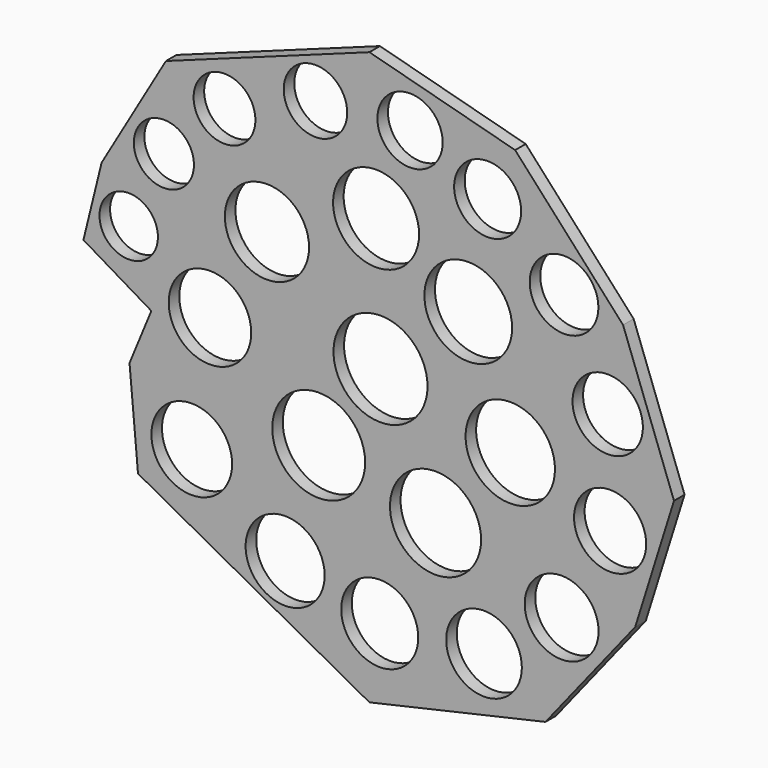
from build123d import *

# Parameters (mm, degrees)
F0_R     = 9.4996
F0_R_2   = 9.7028
F0_R_3   = 11.1633
F0_R_4   = 9.2583
F0_R_5   = 9.0932
F0_R_6   = 8.8773
F0_R_7   = 10.9474
F0_R_8   = 10.7442
F0_R_9   = 8.6741
F0_R_10  = 7.0231
F0_R_11  = 9.9187
F0_R_12  = 7.2263
F0_R_13  = 10.1219
F0_R_14  = 10.3378
F0_R_15  = 7.4295
F0_R_16  = 7.6327
F0_R_17  = 11.303
F0_R_18  = 10.541
F0_R_19  = 8.4582
F0_R_20  = 8.255
F0_R_21  = 8.0518
F0_R_22  = 7.8486
F1_DEPTH = 3.175


with BuildPart() as f1:
    # F0 (on Front) → F1 (new body)
    with BuildSketch(Plane.XZ):
        Polygon((-74.326232, 6.558197), (-58.00814, -3.154771), (-63.250169, -15.885411), (-61.209839, -38.620494), (-5.588048, -68.933934), (36.725905, -59.315246), (58.295086, -32.208033), (67.622297, -2.477541), (55.380326, 30.750657), (29.439015, 59.315246), (-5.588048, 68.64246), (-54.505903, 50.862461), (-69.954097, 24.338197), align=None)
        with Locations((-25.844501, -45.592066)):
            Circle(F0_R, mode=Mode.SUBTRACT)
        with Locations((-48.288107, -29.26944)):
            Circle(F0_R_2, mode=Mode.SUBTRACT)
        with Locations((-17.783852, -18.508689)):
            Circle(F0_R_3, mode=Mode.SUBTRACT)
        with Locations((-3.109419, -51.421572)):
            Circle(F0_R_4, mode=Mode.SUBTRACT)
        with Locations((21.957465, -49.672719)):
            Circle(F0_R_5, mode=Mode.SUBTRACT)
        with Locations((40.611893, -35.973374)):
            Circle(F0_R_6, mode=Mode.SUBTRACT)
        with Locations((10.305857, -25.8201)):
            Circle(F0_R_7, mode=Mode.SUBTRACT)
        with Locations((28.269259, -5.10082)):
            Circle(F0_R_8, mode=Mode.SUBTRACT)
        with Locations((52.270912, -13.821245)):
            Circle(F0_R_9, mode=Mode.SUBTRACT)
        with Locations((-63.44483, 12.994493)):
            Circle(F0_R_10, mode=Mode.SUBTRACT)
        with Locations((-43.915976, 0)):
            Circle(F0_R_11, mode=Mode.SUBTRACT)
        with Locations((-54.992042, 31.065969)):
            Circle(F0_R_12, mode=Mode.SUBTRACT)
        with Locations((-30.216632, 22.613181)):
            Circle(F0_R_13, mode=Mode.SUBTRACT)
        with Locations((-3.983845, 33.980723)):
            Circle(F0_R_14, mode=Mode.SUBTRACT)
        with Locations((-40.418271, 45.348264)):
            Circle(F0_R_15, mode=Mode.SUBTRACT)
        with Locations((-18.557616, 54.092523)):
            Circle(F0_R_16, mode=Mode.SUBTRACT)
        with Locations((-2.918608, 2.477541)):
            Circle(F0_R_17, mode=Mode.SUBTRACT)
        with Locations((18.168284, 21.44728)):
            Circle(F0_R_18, mode=Mode.SUBTRACT)
        with Locations((51.68796, 10.66269)):
            Circle(F0_R_19, mode=Mode.SUBTRACT)
        with Locations((41.194841, 32.523345)):
            Circle(F0_R_20, mode=Mode.SUBTRACT)
        with Locations((22.831891, 46.805643)):
            Circle(F0_R_21, mode=Mode.SUBTRACT)
        with Locations((4.177465, 55.258427)):
            Circle(F0_R_22, mode=Mode.SUBTRACT)
    extrude(amount=F1_DEPTH)


solid = f1.part
